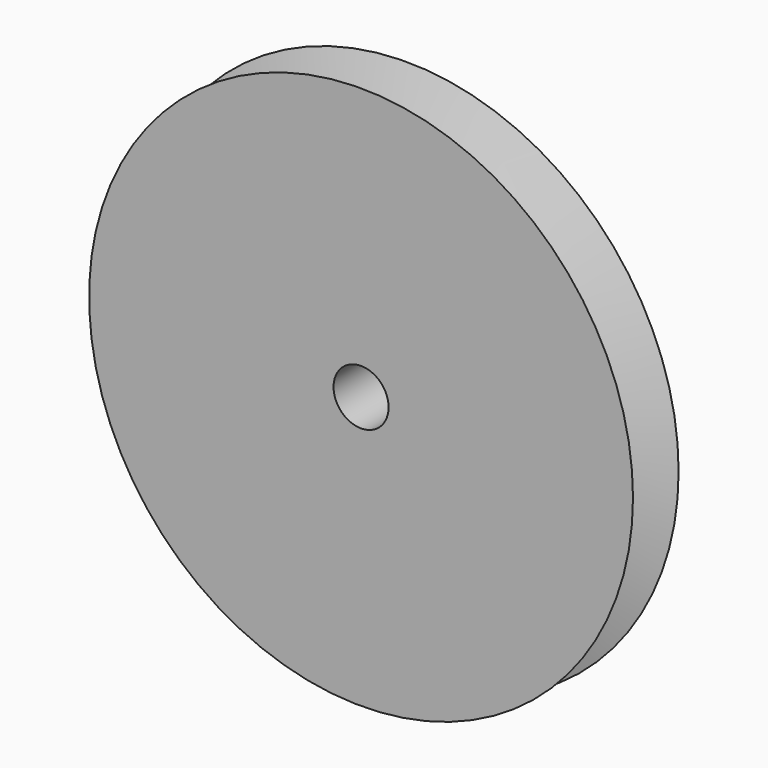
from build123d import *

# Parameters (mm, degrees)
CYLINDER_R     = 1.5
CYLINDER_DEPTH = 22


with BuildPart() as cylinder:
    # Cylinder → Cylinder (new body)
    with BuildSketch(Plane(origin=(0, 18, -11), x_dir=(1, 0, 0), z_dir=(0, 0, 1))):
        Circle(CYLINDER_R)
    extrude(amount=CYLINDER_DEPTH)


with BuildPart() as cut:
    # Sketch → Revolve (revolve)
    with BuildSketch(Plane.XY):
        Polygon((4.05, 0), (4.05, 18), (10.05, 18), (10.05, 8.389587), (40, 8.389587), (31.909247, 5.444793), (31.909247, 2.944793), (40, 0), align=None)
    revolve(axis=Axis((0, 0, 0), (0, 1, 0)))

    # Cut: cut Cylinder
    add(cylinder.part, mode=Mode.SUBTRACT)


solid = cut.part
